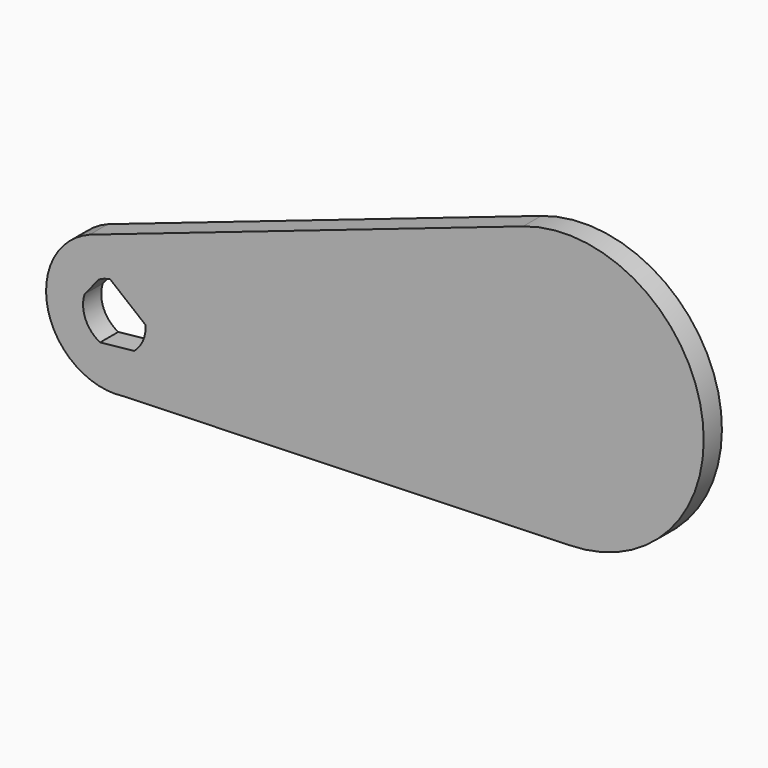
from build123d import *

# Parameters (mm, degrees)
F1_DEPTH = 6.35


with BuildPart() as f1:
    # F0 (on Front) → F1 (new body)
    with BuildSketch(Plane.XZ):
        with BuildLine():
            Line((147.03905, 56.8491), (26.060874, 15.470934))
            ThreePointArc((26.060874, 15.470934), (14.468308, -7.009272), (35.415419, -21.185511))
            Line((35.415419, -21.185511), (159.893201, -17.296974))
            ThreePointArc((159.893201, -17.296974), (196.909173, 27.30746), (147.03905, 56.8491))
        make_face()
        with BuildLine():
            ThreePointArc((28.604817, 5.287778), (30.133109, 5.973494), (31.764223, 6.354742))
            Line((31.764223, 6.354742), (41.633012, -1.638817))
            ThreePointArc((41.633012, -1.638817), (40.945432, -5.75352), (38.427272, -9.079542))
            Line((38.427272, -9.079542), (28.954331, -10.074033))
            ThreePointArc((28.954331, -10.074033), (24.867546, -5.657956), (24.608037, 0.353383))
            Line((24.608037, 0.353383), (28.604817, 5.287778))
        make_face(mode=Mode.SUBTRACT)
    extrude(amount=F1_DEPTH)


solid = f1.part
